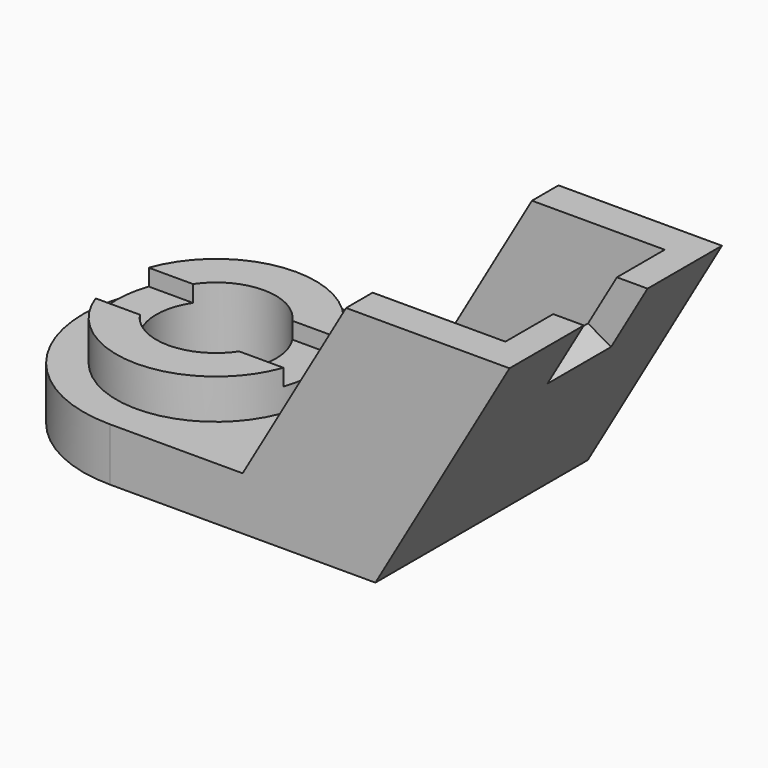
from build123d import *

# Parameters (mm, degrees)
F0_W      = 40
F0_H      = 8
F1_DEPTH  = 40
F3_DEPTH  = 8
F4_R      = 15
F5_DEPTH  = 6
F6_R      = 9
F7_DEPTH  = 14.001
F8_W      = 33.766868
F8_H      = 10
F9_DEPTH  = 2.5
F11_DEPTH = 40
F13_DEPTH = 5
F15_DEPTH = 5
F16_W     = 12
F16_H     = 11
F17_DEPTH = 5


with BuildPart() as f1:
    # F0 (on Front) → F1 (new body)
    with BuildSketch(Plane.XZ):
        with Locations((-20, -4)):
            Rectangle(F0_W, F0_H)
    extrude(amount=F1_DEPTH)

    # F2 (on face) → F3 (join)
    with BuildSketch(Plane.XY):
        with BuildLine():
            Line((-40, -40), (-40, 0))
            ThreePointArc((-40, 0), (-60, -20), (-40, -40))
        make_face()
    extrude(amount=-F3_DEPTH)

    # F4 (on face) → F5 (join)
    with BuildSketch(Plane.XY):
        with Locations((-40, -20)):
            Circle(F4_R)
    extrude(amount=F5_DEPTH)

    # F6 (on face) → F7 (cut, through all)
    with BuildSketch(Plane.XY.offset(6)):
        with Locations((-40, -20)):
            Circle(F6_R)
    extrude(amount=-F7_DEPTH, mode=Mode.SUBTRACT)

    # F8 (on face) → F9 (cut)
    with BuildSketch(Plane.XY.offset(6)):
        with Locations((-40, -20)):
            Rectangle(F8_W, F8_H)
    extrude(amount=-F9_DEPTH, mode=Mode.SUBTRACT)

    # F10 (on face) → F11 (join)
    with BuildSketch(Plane.XZ.offset(40)):
        Polygon((0, 0), (0, -8), (20.207259, 27), (15.588457, 27), align=None)
    extrude(amount=-F11_DEPTH)

    # F12 (on face) → F13 (join)
    with BuildSketch(Plane.XZ.offset(40)):
        Polygon((-4.411543, 27), (-20, 0), (0, 0), (15.588457, 27), align=None)
    extrude(amount=-F13_DEPTH)

    # F14 (on face) → F15 (join)
    with BuildSketch(Plane(origin=(0, 0, 0), x_dir=(-1, 0, 0), z_dir=(0, 1, 0))):
        Polygon((0, 0), (20, 0), (4.411543, 27), (-15.588457, 27), align=None)
    extrude(amount=-F15_DEPTH)

    # F16 (on face) → F17 (cut)
    with BuildSketch(Plane(origin=(3.464102, 0, -2), x_dir=(0, 1, 0), z_dir=(0.866025, 0, -0.5))):
        with Locations((-20, 27.986316)):
            Rectangle(F16_W, F16_H)
    extrude(amount=-F17_DEPTH, mode=Mode.SUBTRACT)


solid = f1.part
